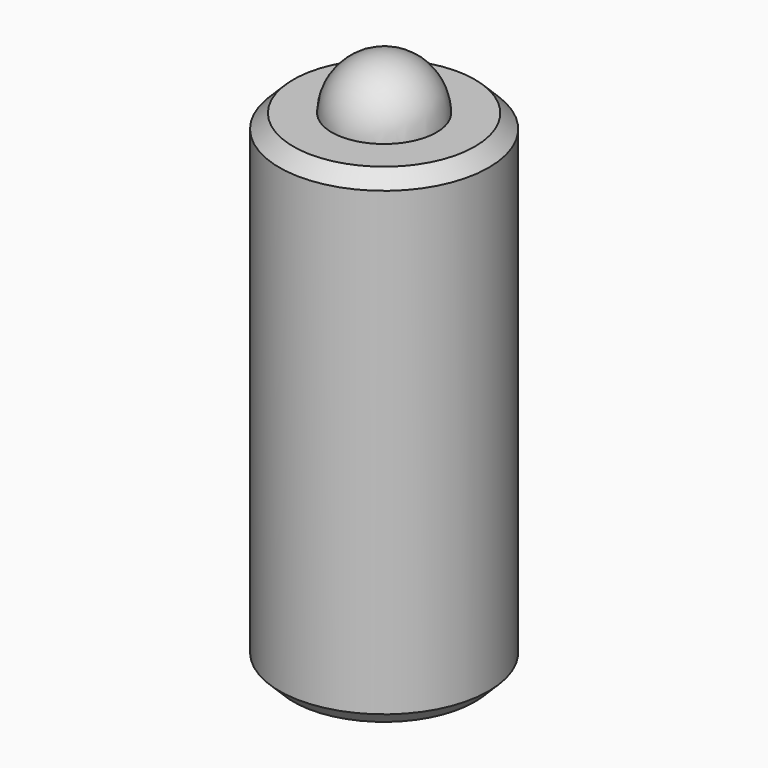
from build123d import *

# Parameters (mm, degrees)
F0_R     = 1.5
F1_DEPTH = 7
F5_SIZE  = 0.2


with BuildPart() as f1:
    # F0 (on Top) → F1 (new body)
    with BuildSketch(Plane.XY):
        Circle(F0_R)
    extrude(amount=F1_DEPTH)

    # F3 (on face) → F4 (revolve)
    with BuildSketch(Plane.XY.offset(7)):
        with BuildLine():
            Line((0, -0.75), (0, 0.75))
            ThreePointArc((0, 0.75), (-0.75, 0), (0, -0.75))
        make_face()
    revolve(axis=Axis((0, 0, 7), (0, 1, 0)))

    # F5
    f5_edges = [f1.edges().sort_by_distance(p)[0] for p in [
        (-1.5, 0, 7),
        (-1.5, 0, 0),
    ]]
    chamfer(f5_edges, length=F5_SIZE)


solid = f1.part
